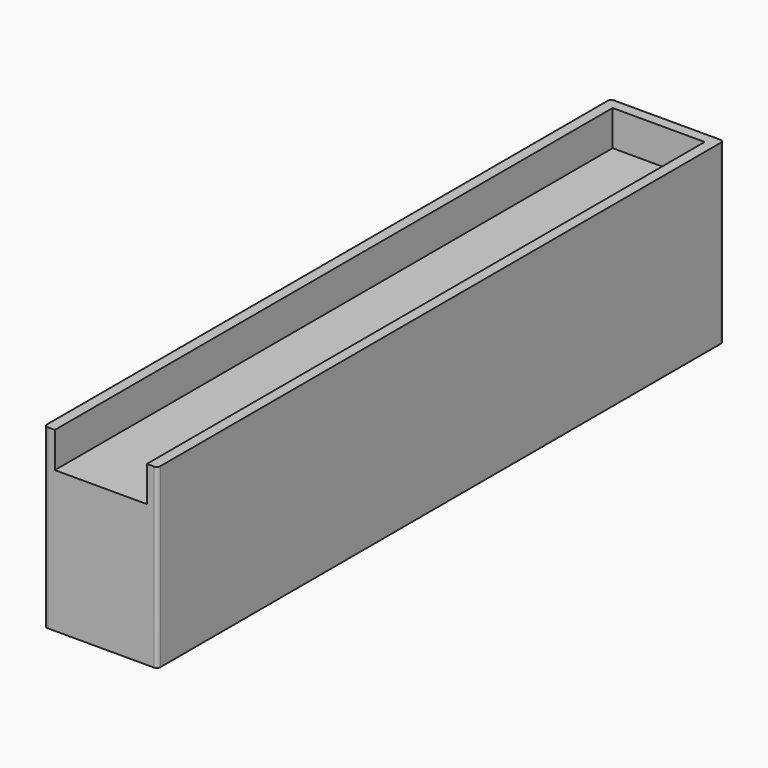
from build123d import *

# Parameters (mm, degrees)
SKETCH_W     = 32
SKETCH_H     = 200
PAD_DEPTH    = 50
SKETCH001_W  = 26
SKETCH001_H  = 200
POCKET_DEPTH = 10
FILLET_R     = 1
FILLET001_R  = 1
FILLET002_R  = 1
FILLET003_R  = 1


with BuildPart() as part:
    # Sketch → Pad (new body)
    with BuildSketch(Plane.XY):
        with Locations((16, 0)):
            Rectangle(SKETCH_W, SKETCH_H)
    extrude(amount=PAD_DEPTH)

    # Sketch001 (on Face6 of Pad) → Pocket (cut)
    with BuildSketch(Plane.XY.offset(50)):
        with Locations((16, -3)):
            Rectangle(SKETCH001_W, SKETCH001_H)
    extrude(amount=-POCKET_DEPTH, mode=Mode.SUBTRACT)

    # Fillet
    fillet_edges = [part.edges().sort_by_distance(p)[0] for p in [
        (32, -100, 25),
    ]]
    fillet(fillet_edges, radius=FILLET_R)

    # Fillet001
    fillet001_edges = [part.edges().sort_by_distance(p)[0] for p in [
        (0, -100, 25),
    ]]
    fillet(fillet001_edges, radius=FILLET001_R)

    # Fillet002
    fillet002_edges = [part.edges().sort_by_distance(p)[0] for p in [
        (0, 100, 25),
    ]]
    fillet(fillet002_edges, radius=FILLET002_R)

    # Fillet003
    fillet003_edges = [part.edges().sort_by_distance(p)[0] for p in [
        (32, 100, 25),
    ]]
    fillet(fillet003_edges, radius=FILLET003_R)


solid = part.part
